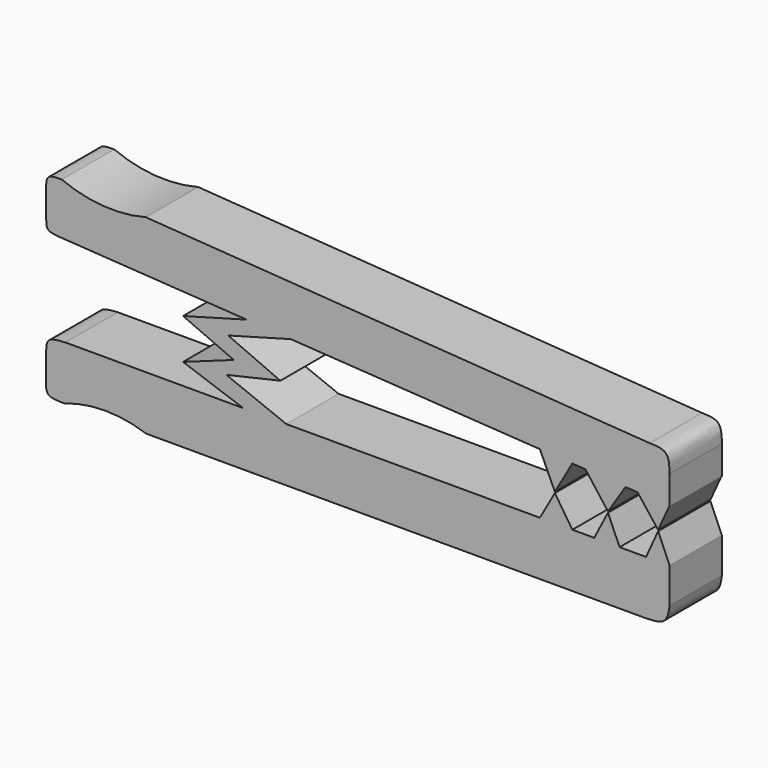
from build123d import *

# Parameters (mm, degrees)
F1_DEPTH = 4


with BuildPart() as f1:
    # F0 (on Front) → F1 (new body)
    with BuildSketch(Plane.XZ):
        Polygon((18.1212967897, 0), (19.5590760559, 0), (18.8588984311, 1.6234545037), align=None)
        with BuildLine():
            Line((19.5590760559, -2.1580299363), (19.5590760559, 0))
            Line((19.5590760559, 0), (18.1212967897, 0))
            Line((18.1212967897, 0), (16.5056623518, 0))
            Line((16.5056623518, 0), (14.9563110818, 0))
            Line((14.9563110818, 0), (13.6181200498, 0))
            Line((13.6181200498, 0), (11.6327671148, 0))
            Line((11.6327671148, 0), (-3.8659593556, 0))
            Line((-3.8659593556, 0), (-6.5012451862, 0))
            Line((-6.5012451862, 0), (-17.3736400902, 0))
            add(Edge.make_bspline(
                [(-18.5409239441, -0.7620579563), (-18.5313819873, -0.5570340705), (-18.5088219152, -0.0722955878), (-17.7890049244, -0.0264530705), (-17.3736400902, 0)],
                knots=[0, 0, 0, 0, 0.4229577248, 1, 1, 1, 1], degree=3))
            Line((-18.5409239441, -0.7620579563), (-18.5409239441, -2.4619437754))
            add(Edge.make_bspline(
                [(-18.5409239441, -2.4619437754), (-18.5568826251, -2.7188473012), (-18.5924766066, -3.2918407312), (-17.8507141613, -3.2983881425), (-17.4415233956, -3.302)],
                knots=[0, 0, 0, 0, 0.4483533532, 1, 1, 1, 1], degree=3))
            ThreePointArc((-17.4415233956, -3.302), (-14.9394255131, -2.8779800495), (-12.4373276307, -3.302))
            Line((-12.4373276307, -3.302), (18.1434545666, -3.302))
            add(Edge.make_bspline(
                [(18.1434545666, -3.302), (18.5720487525, -3.2862632294), (19.3979681291, -3.2559377976), (19.5067461789, -2.5146441916), (19.5590760559, -2.1580299363)],
                knots=[0, 0, 0, 0, 0.5189298108, 1, 1, 1, 1], degree=3))
        make_face()
        Polygon((14.9563110818, 0), (16.5056623518, 0), (15.792561695, 1.6234545037), align=None)
        Polygon((11.6327671148, 0), (13.6181200498, 0), (12.546707876, 1.6234545037), align=None)
        Polygon((-6.5012451862, 0), (-3.8659593556, 0), (-7.5336750597, 1.4574349625), (-4.2313374579, 2.2132038139), (-7.4203494005, 3.6106230691), (-3.5889614675, 4.6581615955), (-6.2896457049, 4.8301138928), (-10.1779419929, 3.7617245689), (-7.0804748294, 2.40442007), (-10.1779419929, 1.2916467484), align=None)
        with BuildLine():
            Line((-6.2896457049, 4.8301138928), (-3.5889614675, 4.6581615955))
            Line((-3.5889614675, 4.6581615955), (11.6327671148, 3.6889956474))
            Line((11.6327671148, 3.6889956474), (13.6181200498, 3.5625884231))
            Line((13.6181200498, 3.5625884231), (14.4155324855, 3.5118172525))
            Line((14.4155324855, 3.5118172525), (16.8658798656, 3.355803878))
            Line((16.8658798656, 3.355803878), (17.6075737409, 3.3085803026))
            Line((17.6075737409, 3.3085803026), (19.5355117321, 3.185828682))
            Line((19.5355117321, 3.185828682), (19.5590760559, 3.1843283439))
            Line((19.5590760559, 3.1843283439), (19.5590760559, 4.9431086518))
            add(Edge.make_bspline(
                [(18.3420831283, 6.1964309278), (18.7345885657, 6.1878547056), (19.5281427506, 6.1705155904), (19.5486912134, 5.3551702683), (19.5590760559, 4.9431086518)],
                knots=[0, 0, 0, 0, 0.4946170594, 1, 1, 1, 1], degree=3))
            Line((18.3420831283, 6.1964309278), (-12.4568440589, 8.3355969669))
            ThreePointArc((-12.4568440589, 8.3355969669), (-15.0516657643, 8.0968521777), (-17.5885669887, 8.692025207))
            add(Edge.make_bspline(
                [(-18.5409239441, 8.1570418552), (-18.5248625182, 8.314252707), (-18.4866086391, 8.6886855231), (-17.9182767751, 8.6907990651), (-17.5885669887, 8.692025207)],
                knots=[0, 0, 0, 0, 0.4198639786, 1, 1, 1, 1], degree=3))
            Line((-18.5409239441, 8.1570418552), (-18.5409239441, 6.2195211649))
            add(Edge.make_bspline(
                [(-18.5409239441, 6.2195211649), (-18.5449199509, 6.03695186), (-18.5543470455, 5.6062473591), (-17.9217358709, 5.568988424), (-17.5572792713, 5.5475230036)],
                knots=[0, 0, 0, 0, 0.4238852961, 1, 1, 1, 1], degree=3))
            Line((-17.5572792713, 5.5475230036), (-6.2896457049, 4.8301138928))
        make_face()
        Polygon((13.6181200498, 3.5625884231), (11.6327671148, 3.6889956474), (12.546707876, 1.6966089606), align=None)
        Polygon((16.8658798656, 3.355803878), (14.4155324855, 3.5118172525), (15.792561695, 1.6966089606), align=None)
        Polygon((19.5355117321, 3.185828682), (17.6075737409, 3.3085803026), (18.8588984311, 1.6966089606), align=None)
    extrude(amount=F1_DEPTH)


solid = f1.part
